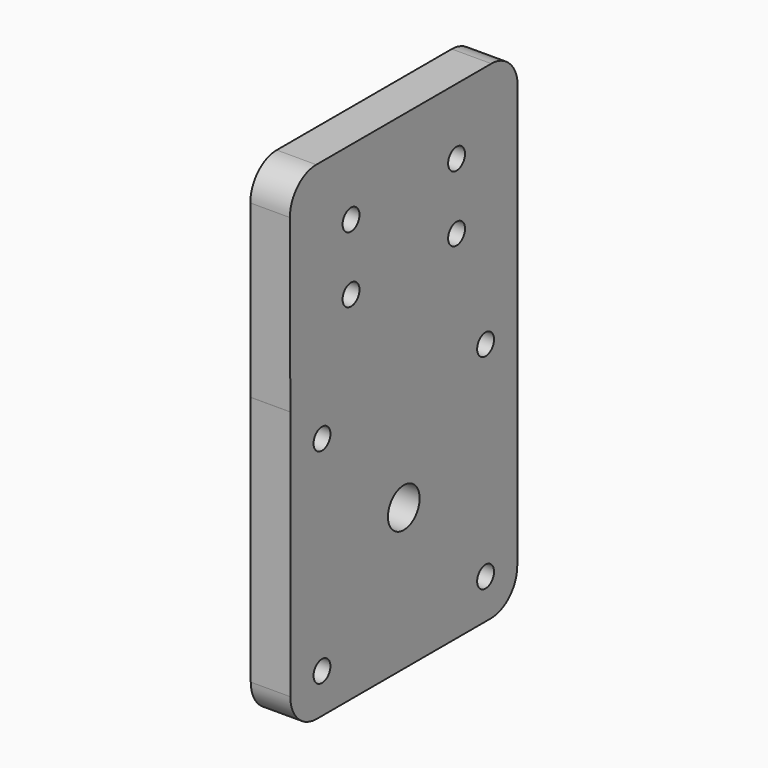
from build123d import *

# Parameters (mm, degrees)
F0_R     = 1.6
F0_R_2   = 3
F1_DEPTH = 6


with BuildPart() as f1:
    # F0 (on Right) → F1 (new body)
    with BuildSketch(Plane.YZ):
        with BuildLine():
            Line((5.599948, -47.575754), (5.599948, -85.56769))
            ThreePointArc((5.599948, -85.56769), (7.064414, -89.103224), (10.599948, -90.56769))
            Line((10.599948, -90.56769), (43.599948, -90.56769))
            ThreePointArc((43.599948, -90.56769), (47.135482, -89.103224), (48.599948, -85.56769))
            Line((48.599948, -85.56769), (48.599948, -47.575754))
            ThreePointArc((48.599948, -47.575754), (48.599955, -47.567689), (48.599974, -47.559625))
            Line((48.599974, -47.559625), (48.683767, -21.583819))
            ThreePointArc((48.683767, -21.583819), (47.225025, -18.037863), (43.683793, -16.56769))
            Line((43.683793, -16.56769), (10.516103, -16.56769))
            ThreePointArc((10.516103, -16.56769), (6.974871, -18.037863), (5.516129, -21.583819))
            Line((5.516129, -21.583819), (5.599922, -47.559625))
            ThreePointArc((5.599922, -47.559625), (5.599941, -47.567689), (5.599948, -47.575754))
        make_face()
        with Locations((11.599948, -84.56769)):
            Circle(F0_R, mode=Mode.SUBTRACT)
        with Locations((42.599948, -84.56769)):
            Circle(F0_R, mode=Mode.SUBTRACT)
        with Locations((27.099948, -69.06769)):
            Circle(F0_R_2, mode=Mode.SUBTRACT)
        with Locations((11.599948, -53.56769)):
            Circle(F0_R, mode=Mode.SUBTRACT)
        with Locations((17.099948, -36.56769)):
            Circle(F0_R, mode=Mode.SUBTRACT)
        with Locations((17.099948, -26.56769)):
            Circle(F0_R, mode=Mode.SUBTRACT)
        with Locations((37.099948, -36.56769)):
            Circle(F0_R, mode=Mode.SUBTRACT)
        with Locations((42.599948, -53.56769)):
            Circle(F0_R, mode=Mode.SUBTRACT)
        with Locations((37.099948, -26.56769)):
            Circle(F0_R, mode=Mode.SUBTRACT)
    extrude(amount=F1_DEPTH)


solid = f1.part
